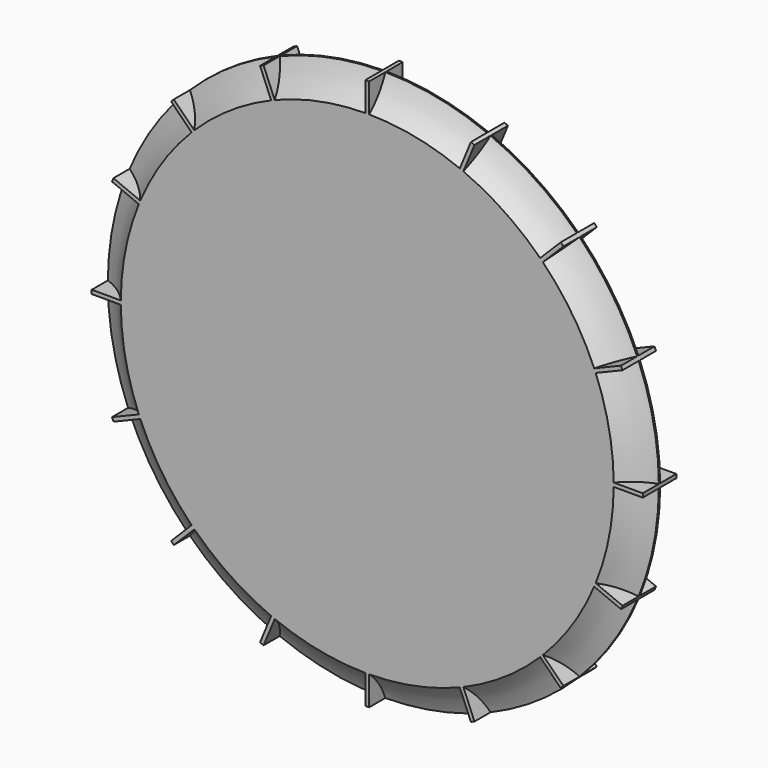
from build123d import *

# Parameters (mm, degrees)
F0_R     = 12.7
F1_DEPTH = 1.9304
F4_W     = 0.1778
F4_H     = 2.54
F4_W_2   = 2.54
F4_H_2   = 0.1778
F5_DEPTH = 1.9304
F6_R     = 13.97
F6_R_2   = 12.7
F7_DEPTH = 25.4


with BuildPart() as f1:
    # F0 (on Front) → F1 (new body)
    with BuildSketch(Plane.XZ):
        Circle(F0_R)
    extrude(amount=-F1_DEPTH)

    # F2 (on Right) → F3 (revolve, cut)
    with BuildSketch(Plane.YZ):
        with BuildLine():
            ThreePointArc((0.9652, 12.807639), (7.1628, 13.7795), (0.9652, 14.751361))
            ThreePointArc((0.9652, 14.751361), (-5.2324, 13.7795), (0.9652, 12.807639))
        make_face()
    revolve(axis=Axis((0, 1.751447, 0), (0, 1, 0)), mode=Mode.SUBTRACT)

    # F4 (on face) → F5 (join)
    with BuildSketch(Plane.XZ):
        with Locations((0, 11.938)):
            Rectangle(F4_W, F4_H)
        Polygon((4.1646, 9.821926), (5.136616, 12.16858), (4.97235, 12.236621), (4.000334, 9.889967), align=None)
        Polygon((7.606277, 7.480553), (9.402328, 9.276605), (9.276605, 9.402328), (7.480553, 7.606277), align=None)
        Polygon((9.889967, 4.000334), (12.236621, 4.97235), (12.16858, 5.136616), (9.821926, 4.1646), align=None)
        with Locations((11.938, 0)):
            Rectangle(F4_W_2, F4_H_2)
        Polygon((9.821926, -4.1646), (12.16858, -5.136616), (12.236621, -4.97235), (9.889967, -4.000334), align=None)
        Polygon((7.480553, -7.606277), (9.276605, -9.402328), (9.402328, -9.276605), (7.606277, -7.480553), align=None)
        Polygon((4.000334, -9.889967), (4.97235, -12.236621), (5.136616, -12.16858), (4.1646, -9.821926), align=None)
        with Locations((0, -11.938)):
            Rectangle(F4_W, F4_H)
        Polygon((-5.136616, -12.16858), (-4.97235, -12.236621), (-4.000334, -9.889967), (-4.1646, -9.821926), align=None)
        Polygon((-9.402328, -9.276605), (-9.276605, -9.402328), (-7.480553, -7.606277), (-7.606277, -7.480553), align=None)
        Polygon((-12.236621, -4.97235), (-12.16858, -5.136616), (-9.821926, -4.1646), (-9.889967, -4.000334), align=None)
        with Locations((-11.938, 0)):
            Rectangle(F4_W_2, F4_H_2)
        Polygon((-12.16858, 5.136616), (-12.236621, 4.97235), (-9.889967, 4.000334), (-9.821926, 4.1646), align=None)
        Polygon((-9.276605, 9.402328), (-9.402328, 9.276605), (-7.606277, 7.480553), (-7.480553, 7.606277), align=None)
        Polygon((-4.97235, 12.236621), (-5.136616, 12.16858), (-4.1646, 9.821926), (-4.000334, 9.889967), align=None)
    extrude(amount=-F5_DEPTH)

    # F6 (on face) → F7 (cut)
    with BuildSketch(Plane.XZ):
        Circle(F6_R)
        Circle(F6_R_2, mode=Mode.SUBTRACT)
    extrude(amount=-F7_DEPTH, mode=Mode.SUBTRACT)


solid = f1.part
